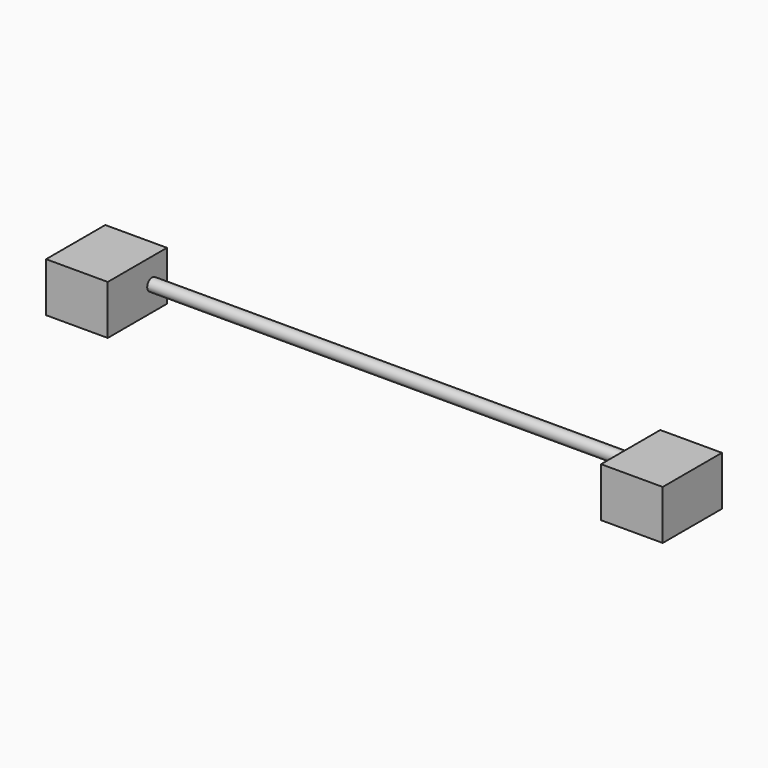
from build123d import *

# Parameters (mm, degrees)
F0_W     = 50
F0_H     = 60
F1_DEPTH = 40
F3_START = -50
F2_R     = 5
F3_DEPTH = 400


with BuildPart() as f1:
    # F0 (on Top) → F1 (new body)
    with BuildSketch(Plane.XY):
        with Locations((-125, -30)):
            Rectangle(F0_W, F0_H)
    extrude(amount=F1_DEPTH)



with BuildPart() as f1b:
    # F0 (on Top) → F1, piece 2 (new body)
    with BuildSketch(Plane.XY):
        with Locations((325, -30)):
            Rectangle(F0_W, F0_H)
    extrude(amount=F1_DEPTH)


with BuildPart() as f1_1:
    add(f1.part)

    add(f1b.part)  # F3 merges F1b
    # F2 (on face) → F3 (join)
    with BuildSketch(Plane.YZ.offset(350).offset(F3_START)):
        with Locations((-15, 20)):
            Circle(F2_R)
    extrude(amount=-F3_DEPTH)


solid = f1_1.part
